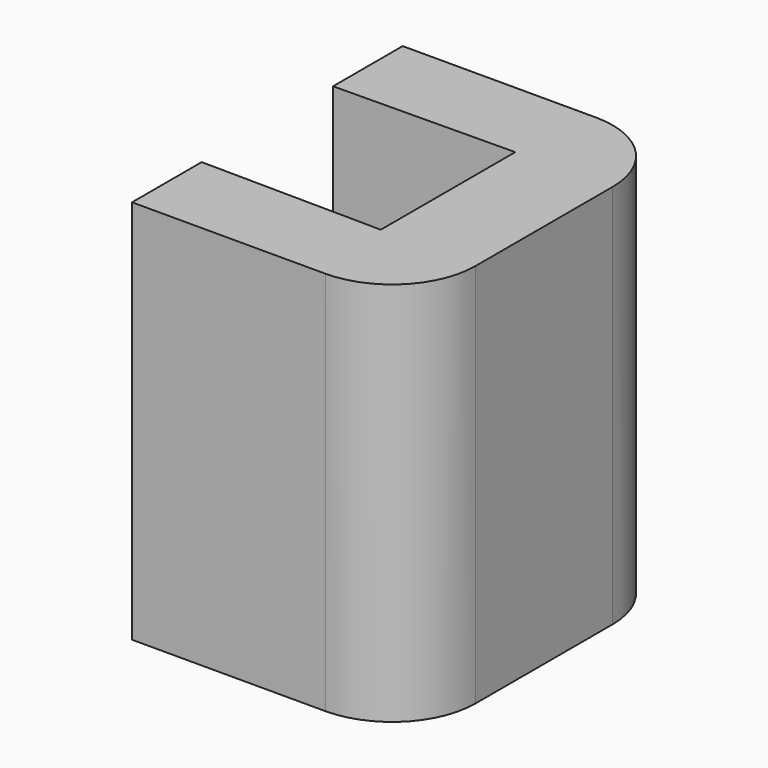
from build123d import *

# Parameters (mm, degrees)
F1_DEPTH = 76.2


with BuildPart() as f1:
    # F0 (on Top) → F1 (new body)
    with BuildSketch(Plane.XY):
        with BuildLine():
            Line((46.550579, 16.626039), (46.550579, 0))
            Line((46.550579, 0), (65.564868, 0))
            Line((65.564868, 0), (65.564868, 16.957591))
            ThreePointArc((65.564868, 16.957591), (60.729201, 28.631924), (49.054868, 33.467591))
            Line((49.054868, 33.467591), (10.811041, 33.467591))
            Line((10.811041, 33.467591), (10.811041, 16.246119))
            Line((10.811041, 16.246119), (46.550579, 16.626039))
        make_face()
        with BuildLine():
            Line((46.550579, -16.626039), (10.811041, -16.246119))
            Line((10.811041, -16.246119), (10.811041, -33.467591))
            Line((10.811041, -33.467591), (49.054868, -33.467591))
            ThreePointArc((49.054868, -33.467591), (60.729201, -28.631924), (65.564868, -16.957591))
            Line((65.564868, -16.957591), (65.564868, 0))
            Line((65.564868, 0), (46.550579, 0))
            Line((46.550579, 0), (46.550579, -16.626039))
        make_face()
    extrude(amount=F1_DEPTH)


solid = f1.part
